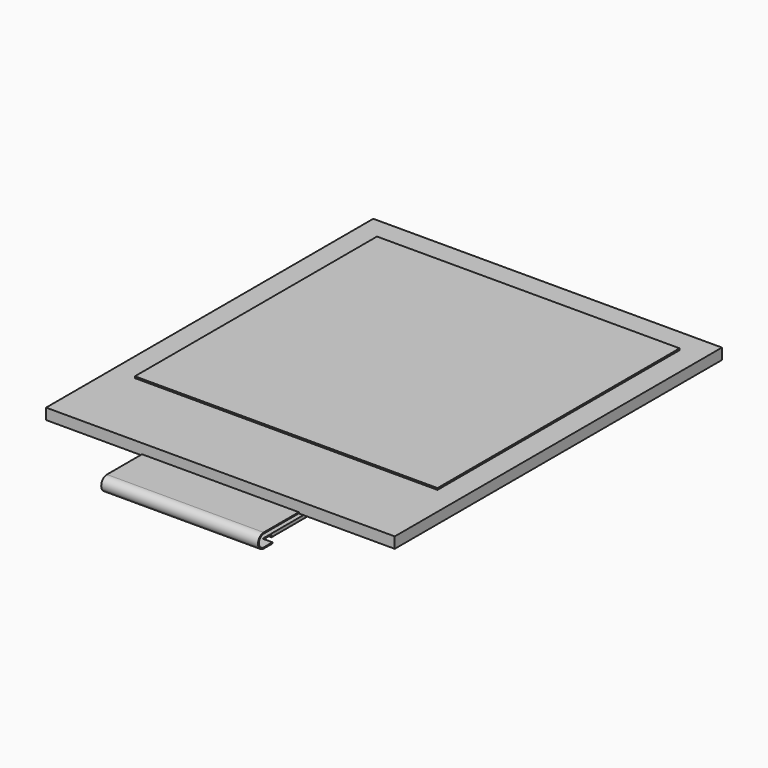
from build123d import *

# Parameters (mm, degrees)
F0_W     = 27.6
F0_H     = 0.15
F0_H_2   = 0.9
F1_DEPTH = 13.8
F2_DEPTH = 15.9
F3_DEPTH = 7.15
F4_DEPTH = 6.25


with BuildPart() as f1:
    # F0 (on Right) → F1 (new body, symmetric)
    with BuildSketch(Plane.YZ):
        with Locations((-13.8, 0.975)):
            Rectangle(F0_W, F0_H)
        with Locations((-13.8, 0.45)):
            Rectangle(F0_W, F0_H_2)
    extrude(amount=F1_DEPTH, both=True)

    # F0 (on Right) → F2 (join, symmetric)
    with BuildSketch(Plane.YZ):
        Polygon((-35.1, 0.9), (-35.1, 0), (-35.1, -0.1), (2.2, -0.1), (2.2, 0.9), (0, 0.9), (0, 0), (-27.6, 0), (-27.6, 0.9), align=None)
        with Locations((-13.8, 0.45)):
            Rectangle(F0_W, F0_H_2)
    extrude(amount=F2_DEPTH, both=True)

    # F0 (on Right) → F3 (join, symmetric)
    with BuildSketch(Plane.YZ):
        with BuildLine():
            Line((-35.1, -0.1), (-35.1, 0))
            Line((-35.1, 0), (-39.1, 0))
            ThreePointArc((-39.1, 0), (-39.75, -0.65), (-39.1, -1.3))
            Line((-39.1, -1.3), (-38.1, -1.3))
            Line((-38.1, -1.3), (-38.1, -1.2))
            Line((-38.1, -1.2), (-39.1, -1.2))
            ThreePointArc((-39.1, -1.2), (-39.65, -0.65), (-39.1, -0.1))
            Line((-39.1, -0.1), (-35.1, -0.1))
        make_face()
    extrude(amount=F3_DEPTH, both=True)

    # F0 (on Right) → F4 (join, symmetric)
    with BuildSketch(Plane.YZ):
        Polygon((-38.1, -1.2), (-38.1, -1.3), (-37.1, -1.3), (-37.1, -1.5), (-31.1, -1.5), (-31.1, -1.3), (-31.1, -1.2), align=None)
    extrude(amount=F4_DEPTH, both=True)


solid = f1.part
